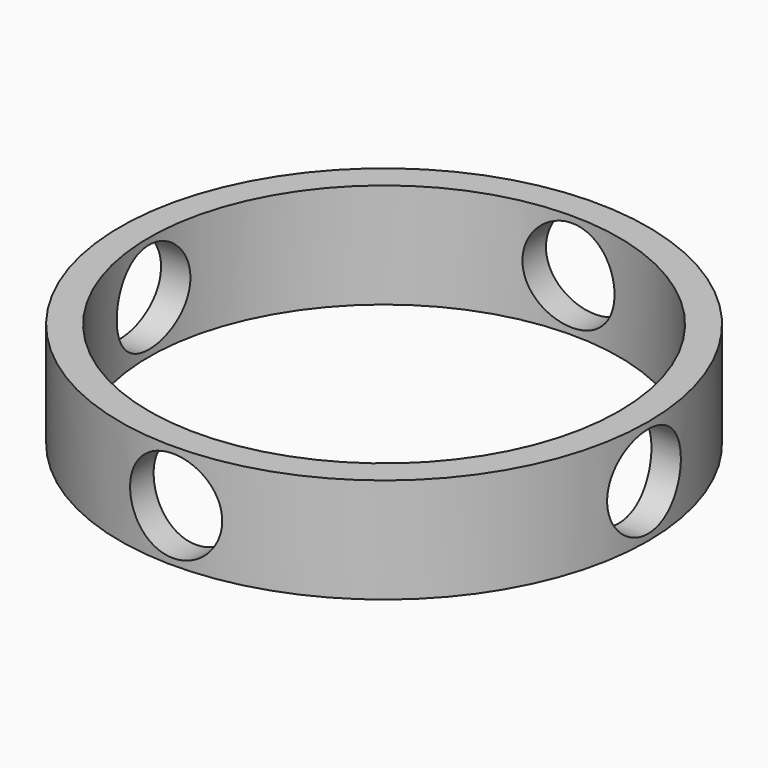
from build123d import *

# Parameters (mm, degrees)
F0_R     = 63.918721
F0_R_2   = 56.918721
F1_DEPTH = 25.4
F2_R     = 11.15
F3_DEPTH = 76.2
F4_R     = 11.1506
F5_DEPTH = 76.2
F6_R     = 11.1506
F7_DEPTH = 76.2
F8_R     = 11.1506
F9_DEPTH = 76.2


with BuildPart() as f1:
    # F0 (on Top) → F1 (new body)
    with BuildSketch(Plane.XY):
        Circle(F0_R)
        Circle(F0_R_2, mode=Mode.SUBTRACT)
    extrude(amount=F1_DEPTH)

    # F2 (on Front) → F3 (cut)
    with BuildSketch(Plane.XZ):
        with Locations((0, 12.7)):
            Circle(F2_R)
    extrude(amount=F3_DEPTH, mode=Mode.SUBTRACT)

    # F4 (on Front) → F5 (cut)
    with BuildSketch(Plane.XZ):
        with Locations((0, 12.7)):
            Circle(F4_R)
    extrude(amount=-F5_DEPTH, mode=Mode.SUBTRACT)

    # F6 (on Right) → F7 (cut)
    with BuildSketch(Plane.YZ):
        with Locations((0, 12.7)):
            Circle(F6_R)
    extrude(amount=-F7_DEPTH, mode=Mode.SUBTRACT)

    # F8 (on Right) → F9 (cut)
    with BuildSketch(Plane.YZ):
        with Locations((0, 12.7)):
            Circle(F8_R)
    extrude(amount=F9_DEPTH, mode=Mode.SUBTRACT)


solid = f1.part
